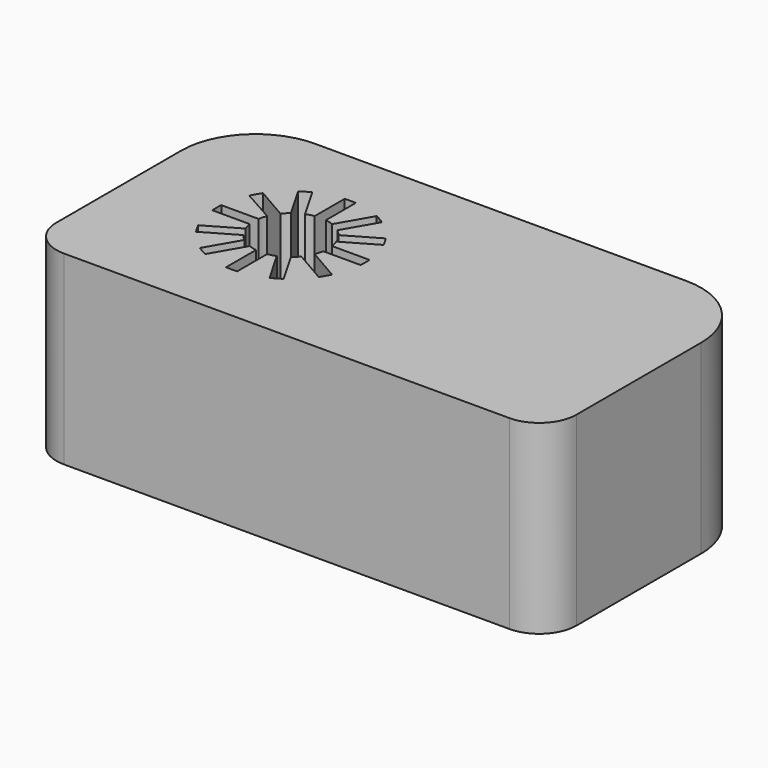
from build123d import *

# Parameters (mm, degrees)
F1_DEPTH = 25


with BuildPart() as f1:
    # F0 (on Top) → F1 (new body)
    with BuildSketch(Plane.XY):
        with BuildLine():
            ThreePointArc((-35.28226, -29.26819), (-33.817794, -32.803724), (-30.28226, -34.26819))
            Line((-30.28226, -34.26819), (29.71774, -34.26819))
            ThreePointArc((29.71774, -34.26819), (33.253274, -32.803724), (34.71774, -29.26819))
            Line((34.71774, -29.26819), (34.71774, -8.26819))
            ThreePointArc((34.71774, -8.26819), (31.788808, -1.197122), (24.71774, 1.73181))
            Line((24.71774, 1.73181), (-25.28226, 1.73181))
            ThreePointArc((-25.28226, 1.73181), (-32.353327, -1.197122), (-35.28226, -8.26819))
            Line((-35.28226, -8.26819), (-35.28226, -29.26819))
        make_face()
        with BuildLine():
            ThreePointArc((-16.084487, -11.432007), (-15.556147, -11.258388), (-15.011794, -11.144518))
            Line((-15.011794, -11.144518), (-15.011794, -6.116113))
            ThreePointArc((-15.011794, -6.116113), (-14.261794, -6.087948), (-13.511794, -6.116113))
            Line((-13.511794, -6.116113), (-13.511794, -11.144518))
            ThreePointArc((-13.511794, -11.144518), (-12.967699, -11.258319), (-12.439598, -11.431812))
            Line((-12.439598, -11.431812), (-9.924919, -7.077315))
            ThreePointArc((-9.924919, -7.077315), (-9.59007, -7.246285), (-9.261794, -7.427694))
            ThreePointArc((-9.261794, -7.427694), (-8.940551, -7.621285), (-8.626794, -7.826787))
            Line((-8.626794, -7.826787), (-11.140977, -12.181479))
            ThreePointArc((-11.140977, -12.181479), (-10.72626, -12.552414), (-10.355325, -12.967131))
            Line((-10.355325, -12.967131), (-6.000633, -10.452948))
            ThreePointArc((-6.000633, -10.452948), (-5.60154, -11.087948), (-5.251161, -11.751073))
            Line((-5.251161, -11.751073), (-9.605852, -14.265255))
            ThreePointArc((-9.605852, -14.265255), (-9.432234, -14.793595), (-9.318364, -15.337948))
            Line((-9.318364, -15.337948), (-4.289958, -15.337948))
            ThreePointArc((-4.289958, -15.337948), (-4.261794, -16.087948), (-4.289958, -16.837948))
            Line((-4.289958, -16.837948), (-9.318364, -16.837948))
            ThreePointArc((-9.318364, -16.837948), (-9.432235, -17.382306), (-9.605856, -17.91065))
            Line((-9.605856, -17.91065), (-5.251199, -20.424903))
            Line((-5.251199, -20.424903), (-6.000683, -21.723021))
            Line((-6.000683, -21.723021), (-10.355352, -19.2088))
            ThreePointArc((-10.355352, -19.2088), (-10.726087, -19.623309), (-11.14056, -19.994084))
            Line((-11.14056, -19.994084), (-8.626357, -24.348811))
            ThreePointArc((-8.626357, -24.348811), (-9.261794, -24.748202), (-9.925395, -25.098811))
            Line((-9.925395, -25.098811), (-12.439598, -20.744084))
            ThreePointArc((-12.439598, -20.744084), (-12.967699, -20.917577), (-13.511794, -21.031378))
            Line((-13.511794, -21.031378), (-13.511794, -26.059783))
            ThreePointArc((-13.511794, -26.059783), (-14.261794, -26.087948), (-15.011794, -26.059783))
            Line((-15.011794, -26.059783), (-15.011794, -21.031378))
            ThreePointArc((-15.011794, -21.031378), (-15.555889, -20.917577), (-16.08399, -20.744084))
            Line((-16.08399, -20.744084), (-18.598669, -25.098581))
            ThreePointArc((-18.598669, -25.098581), (-19.261794, -24.748202), (-19.896794, -24.349109))
            Line((-19.896794, -24.349109), (-17.383028, -19.994084))
            ThreePointArc((-17.383028, -19.994084), (-17.797328, -19.623482), (-18.16793, -19.209182))
            Line((-18.16793, -19.209182), (-22.522955, -21.722948))
            ThreePointArc((-22.522955, -21.722948), (-22.922048, -21.087948), (-23.272427, -20.424823))
            Line((-23.272427, -20.424823), (-18.91793, -17.910144))
            ThreePointArc((-18.91793, -17.910144), (-19.091423, -17.382043), (-19.205224, -16.837948))
            Line((-19.205224, -16.837948), (-24.233629, -16.837948))
            ThreePointArc((-24.233629, -16.837948), (-24.261794, -16.087948), (-24.233629, -15.337948))
            Line((-24.233629, -15.337948), (-19.205224, -15.337948))
            ThreePointArc((-19.205224, -15.337948), (-19.090659, -14.791005), (-18.915777, -14.260262))
            Line((-18.915777, -14.260262), (-23.298524, -11.805716))
            ThreePointArc((-23.298524, -11.805716), (-22.936977, -11.113895), (-22.522569, -10.452383))
            Line((-22.522569, -10.452383), (-18.167881, -12.966653))
            ThreePointArc((-18.167881, -12.966653), (-17.797112, -12.552198), (-17.382611, -12.181479))
            Line((-17.382611, -12.181479), (-19.896794, -7.826787))
            ThreePointArc((-19.896794, -7.826787), (-19.261794, -7.427694), (-18.598669, -7.077315))
            Line((-18.598669, -7.077315), (-16.084487, -11.432007))
        make_face(mode=Mode.SUBTRACT)
        with BuildLine():
            ThreePointArc((-35.28226, -29.26819), (-33.817794, -32.803724), (-30.28226, -34.26819))
            Line((-30.28226, -34.26819), (29.71774, -34.26819))
            ThreePointArc((29.71774, -34.26819), (33.253274, -32.803724), (34.71774, -29.26819))
            Line((34.71774, -29.26819), (34.71774, -8.26819))
            ThreePointArc((34.71774, -8.26819), (31.788808, -1.197122), (24.71774, 1.73181))
            Line((24.71774, 1.73181), (-25.28226, 1.73181))
            ThreePointArc((-25.28226, 1.73181), (-32.353327, -1.197122), (-35.28226, -8.26819))
            Line((-35.28226, -8.26819), (-35.28226, -29.26819))
        make_face()
        with BuildLine():
            ThreePointArc((-16.084487, -11.432007), (-15.556147, -11.258388), (-15.011794, -11.144518))
            Line((-15.011794, -11.144518), (-15.011794, -6.116113))
            ThreePointArc((-15.011794, -6.116113), (-14.261794, -6.087948), (-13.511794, -6.116113))
            Line((-13.511794, -6.116113), (-13.511794, -11.144518))
            ThreePointArc((-13.511794, -11.144518), (-12.967699, -11.258319), (-12.439598, -11.431812))
            Line((-12.439598, -11.431812), (-9.924919, -7.077315))
            ThreePointArc((-9.924919, -7.077315), (-9.59007, -7.246285), (-9.261794, -7.427694))
            ThreePointArc((-9.261794, -7.427694), (-8.940551, -7.621285), (-8.626794, -7.826787))
            Line((-8.626794, -7.826787), (-11.140977, -12.181479))
            ThreePointArc((-11.140977, -12.181479), (-10.72626, -12.552414), (-10.355325, -12.967131))
            Line((-10.355325, -12.967131), (-6.000633, -10.452948))
            ThreePointArc((-6.000633, -10.452948), (-5.60154, -11.087948), (-5.251161, -11.751073))
            Line((-5.251161, -11.751073), (-9.605852, -14.265255))
            ThreePointArc((-9.605852, -14.265255), (-9.432234, -14.793595), (-9.318364, -15.337948))
            Line((-9.318364, -15.337948), (-4.289958, -15.337948))
            ThreePointArc((-4.289958, -15.337948), (-4.261794, -16.087948), (-4.289958, -16.837948))
            Line((-4.289958, -16.837948), (-9.318364, -16.837948))
            ThreePointArc((-9.318364, -16.837948), (-9.432235, -17.382306), (-9.605856, -17.91065))
            Line((-9.605856, -17.91065), (-5.251199, -20.424903))
            Line((-5.251199, -20.424903), (-6.000683, -21.723021))
            Line((-6.000683, -21.723021), (-10.355352, -19.2088))
            ThreePointArc((-10.355352, -19.2088), (-10.726087, -19.623309), (-11.14056, -19.994084))
            Line((-11.14056, -19.994084), (-8.626357, -24.348811))
            ThreePointArc((-8.626357, -24.348811), (-9.261794, -24.748202), (-9.925395, -25.098811))
            Line((-9.925395, -25.098811), (-12.439598, -20.744084))
            ThreePointArc((-12.439598, -20.744084), (-12.967699, -20.917577), (-13.511794, -21.031378))
            Line((-13.511794, -21.031378), (-13.511794, -26.059783))
            ThreePointArc((-13.511794, -26.059783), (-14.261794, -26.087948), (-15.011794, -26.059783))
            Line((-15.011794, -26.059783), (-15.011794, -21.031378))
            ThreePointArc((-15.011794, -21.031378), (-15.555889, -20.917577), (-16.08399, -20.744084))
            Line((-16.08399, -20.744084), (-18.598669, -25.098581))
            ThreePointArc((-18.598669, -25.098581), (-19.261794, -24.748202), (-19.896794, -24.349109))
            Line((-19.896794, -24.349109), (-17.383028, -19.994084))
            ThreePointArc((-17.383028, -19.994084), (-17.797328, -19.623482), (-18.16793, -19.209182))
            Line((-18.16793, -19.209182), (-22.522955, -21.722948))
            ThreePointArc((-22.522955, -21.722948), (-22.922048, -21.087948), (-23.272427, -20.424823))
            Line((-23.272427, -20.424823), (-18.91793, -17.910144))
            ThreePointArc((-18.91793, -17.910144), (-19.091423, -17.382043), (-19.205224, -16.837948))
            Line((-19.205224, -16.837948), (-24.233629, -16.837948))
            ThreePointArc((-24.233629, -16.837948), (-24.261794, -16.087948), (-24.233629, -15.337948))
            Line((-24.233629, -15.337948), (-19.205224, -15.337948))
            ThreePointArc((-19.205224, -15.337948), (-19.090659, -14.791005), (-18.915777, -14.260262))
            Line((-18.915777, -14.260262), (-23.298524, -11.805716))
            ThreePointArc((-23.298524, -11.805716), (-22.936977, -11.113895), (-22.522569, -10.452383))
            Line((-22.522569, -10.452383), (-18.167881, -12.966653))
            ThreePointArc((-18.167881, -12.966653), (-17.797112, -12.552198), (-17.382611, -12.181479))
            Line((-17.382611, -12.181479), (-19.896794, -7.826787))
            ThreePointArc((-19.896794, -7.826787), (-19.261794, -7.427694), (-18.598669, -7.077315))
            Line((-18.598669, -7.077315), (-16.084487, -11.432007))
        make_face(mode=Mode.SUBTRACT)
    extrude(amount=F1_DEPTH)


solid = f1.part
